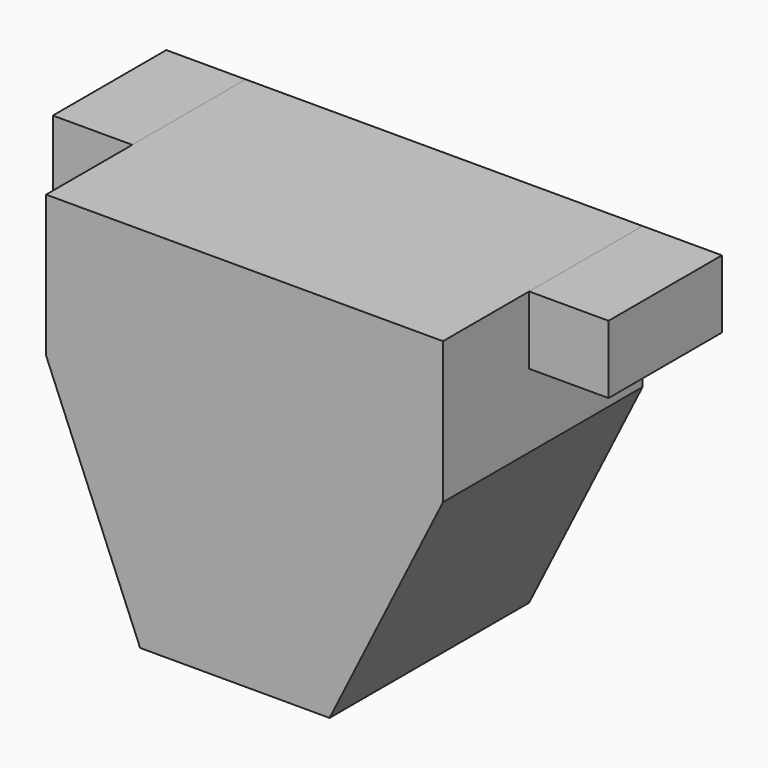
from build123d import *

# Parameters (mm, degrees)
F1_DEPTH = 44
F2_W     = 14
F2_H     = 25
F3_DEPTH = 12


with BuildPart() as f1:
    # F0 (on Front) → F1 (new body)
    with BuildSketch(Plane.XZ):
        Polygon((35, 20.5), (35, 32.5), (-35, 32.5), (-35, 20.5), (-35, 7.5), (-18.415261, -32.5), (15, -32.5), (35, 7.5), align=None)
    extrude(amount=F1_DEPTH)


with BuildPart() as f3:
    # F2 (on face) → F3 (new body)
    with BuildSketch(Plane.XY.offset(32.5)):
        with Locations((-42, -12.5)):
            Rectangle(F2_W, F2_H)
        with Locations((42, -12.5)):
            Rectangle(F2_W, F2_H)
    extrude(amount=-F3_DEPTH)


solid = Compound([f1.part, f3.part])
